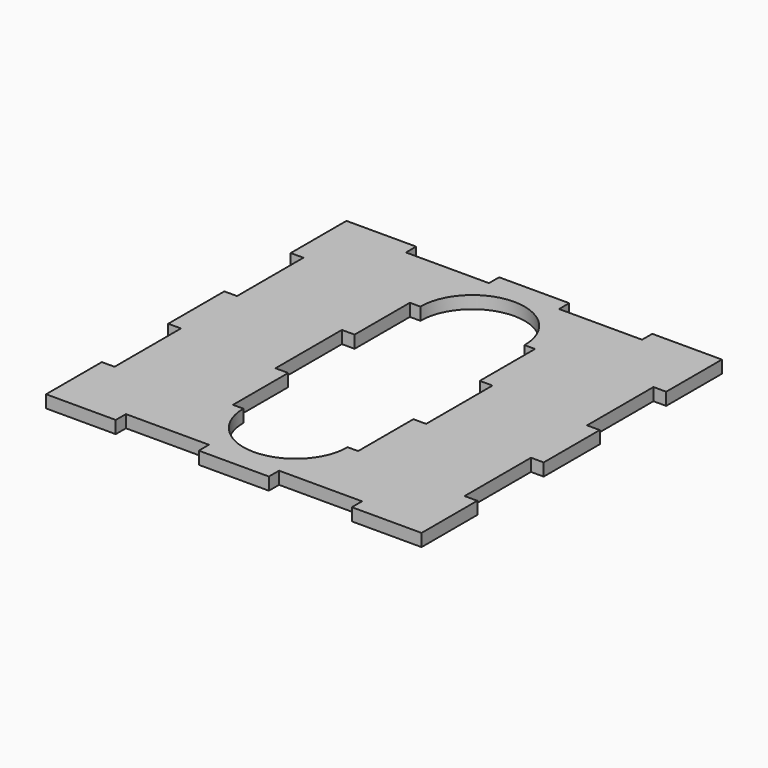
from build123d import *

# Parameters (mm, degrees)
F1_DEPTH = 3


with BuildPart() as f1:
    # F0 (on Top) → F1 (new body)
    with BuildSketch(Plane.XY):
        Polygon((28.3, -45), (45, -45), (45, -28.3), (41.95, -28.3), (41.95, -8.4), (45, -8.4), (45, 8.4), (41.95, 8.4), (41.95, 28.3), (45, 28.3), (45, 45), (28.3, 45), (28.3, 41.95), (8.4, 41.95), (8.4, 45), (-8.4, 45), (-8.4, 41.95), (-28.3, 41.95), (-28.3, 45), (-45, 45), (-45, 28.3), (-41.95, 28.3), (-41.95, 8.4), (-45, 8.4), (-45, -8.4), (-41.95, -8.4), (-41.95, -28.3), (-45, -28.3), (-45, -45), (-28.3, -45), (-28.3, -41.95), (-8.4, -41.95), (-8.4, -45), (8.4, -45), (8.4, -41.95), (28.3, -41.95), align=None)
        with BuildLine():
            Line((15, -9.95), (15, -26.5))
            Line((15, -26.5), (12.5, -26.5))
            ThreePointArc((12.5, -26.5), (0, -39), (-12.5, -26.5))
            Line((-12.5, -26.5), (-15, -26.5))
            Line((-15, -26.5), (-15, -9.95))
            Line((-15, -9.95), (-18.05, -9.95))
            Line((-18.05, -9.95), (-18.05, 9.95))
            Line((-18.05, 9.95), (-15, 9.95))
            Line((-15, 9.95), (-15, 26.5))
            Line((-15, 26.5), (-12.5, 26.5))
            ThreePointArc((-12.5, 26.5), (0, 39), (12.5, 26.5))
            Line((12.5, 26.5), (15, 26.5))
            Line((15, 26.5), (15, 9.95))
            Line((15, 9.95), (18.05, 9.95))
            Line((18.05, 9.95), (18.05, -9.95))
            Line((18.05, -9.95), (15, -9.95))
        make_face(mode=Mode.SUBTRACT)
    extrude(amount=F1_DEPTH)


solid = f1.part
